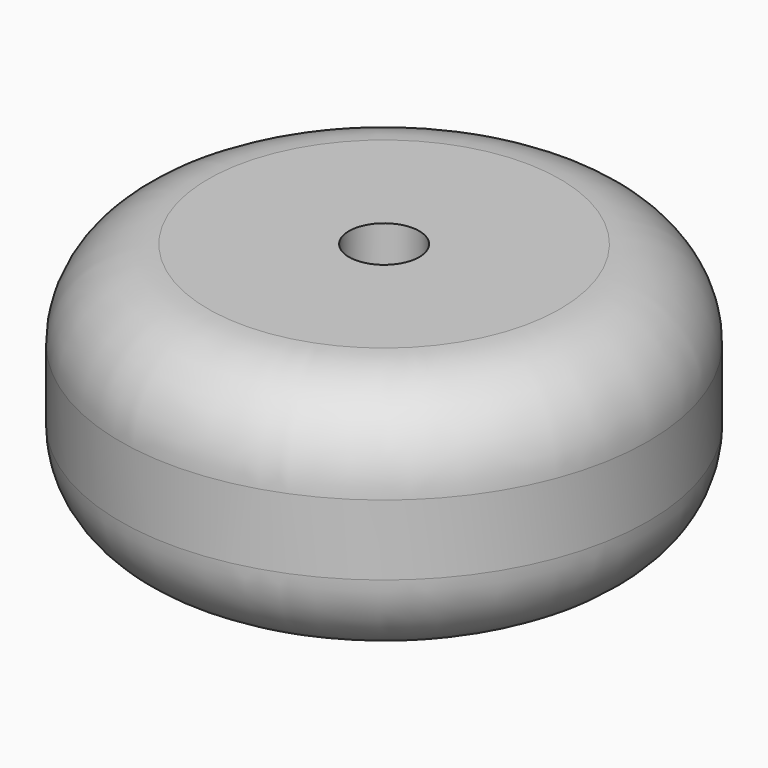
from build123d import *

# Parameters (mm, degrees)
F0_R     = 7.5
F0_R_2   = 1
F1_DEPTH = 7
F2_DEPTH = 5
F3_R     = 2.5


with BuildPart() as f1:
    # F0 (on Top) → F1 (new body)
    with BuildSketch(Plane.XY):
        Circle(F0_R)
        Circle(F0_R_2, mode=Mode.SUBTRACT)
    extrude(amount=F1_DEPTH)

    # F0 (on Top) → F2 (join)
    with BuildSketch(Plane.XY):
        Circle(F0_R)
        Circle(F0_R_2, mode=Mode.SUBTRACT)
    extrude(amount=F2_DEPTH)

    # F3
    f3_edges = [f1.edges().sort_by_distance(p)[0] for p in [
        (-7.5, 0, 7),
        (-7.5, 0, 0),
    ]]
    fillet(f3_edges, radius=F3_R)


solid = f1.part
